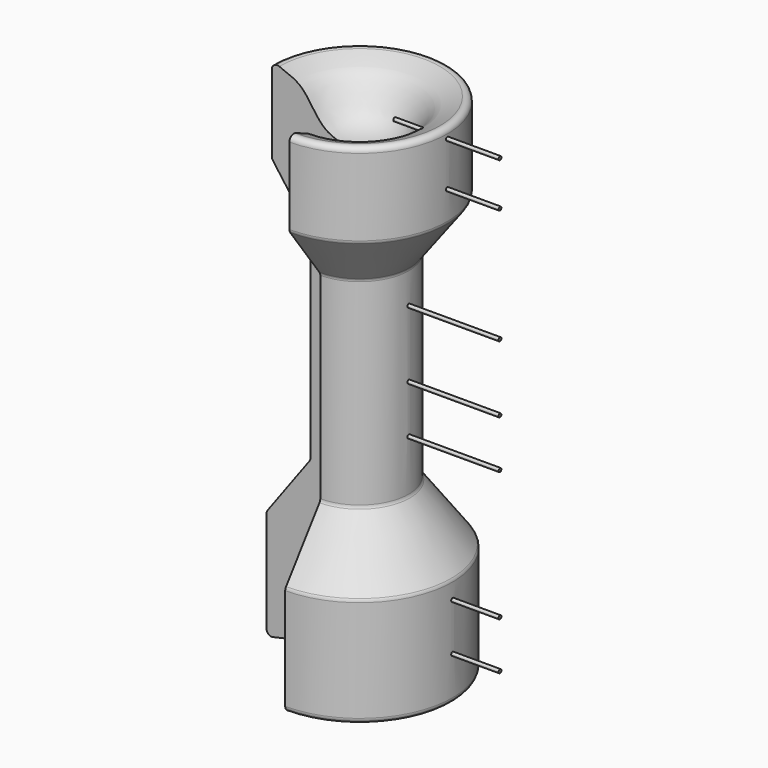
from build123d import *

# Parameters (mm, degrees)
F1_ANGLE = 270
F2_R     = 1.2745464221
F2_R_2   = 1.2552824714
F2_R_3   = 1.6322190303
F2_R_4   = 0.8880093631
F2_R_5   = 0.7381695648
F2_R_6   = 0.9012440071
F2_R_7   = 0.8549916488
F2_R_8   = 0.6863607266
F2_R_9   = 0.6498929306
F2_R_10  = 0.2758645629
F2_R_11  = 0.2848262521
F2_R_12  = 0.3956072165
F2_R_13  = 0.1715613473
F2_R_14  = 0.3493530521
F2_R_15  = 0.1932104592
F2_R_16  = 0.25277551
F2_R_17  = 0.2470281442
F2_R_18  = 0.189466877
F2_R_19  = 0.1894625306
F2_R_20  = 0.2160172465
F2_R_21  = 0.3410318833
F2_R_22  = 0.2092722247
F2_R_23  = 0.1515702747
F2_R_24  = 0.2040596992
F2_R_25  = 0.2652492155
F2_R_26  = 0.1629812297
F2_R_27  = 0.2638909269
F2_R_28  = 0.3136161778
F2_R_29  = 0.1562338053
F2_R_30  = 0.1715608928
F2_R_31  = 0.2995627114
F2_R_32  = 0.1289519235
F2_R_33  = 0.1538380187
F5_R     = 0.5
F6_DEPTH = 30


with BuildPart() as f1:
    # F0 (on Front) → F1 (revolve)
    with BuildSketch(Plane.XZ):
        with BuildLine():
            Line((-26.5, 30.5078862585), (-26.5, 1.5))
            ThreePointArc((-26.5, 1.5), (-26.0606601718, 0.4393398282), (-25, 0))
            add(Edge.make_bspline(
                [(-25, 0), (-21.8230657675, 0.652944704), (-15.6305798646, 1.925665692), (-8.3183493159, 6.856323911), (-2.7537531786, 7.6060234397), (0, 7.977027446)],
                knots=[0, 0, 0, 0, 0.3473277747, 0.6770119213, 1, 1, 1, 1], degree=3))
            Line((0, 7.977027446), (0, 130))
            add(Edge.make_bspline(
                [(-22.8977772498, 143.7990468747), (-20.9914386602, 142.9633793343), (-15.1584438549, 141.379212354), (-11.1858827412, 130.3900782292), (-2.2585186695, 129.8678209624), (0, 130)],
                knots=[0.0910696974, 0.0910696974, 0.0910696974, 0.0910696974, 0.3150517448, 0.6731890645, 1, 1, 1, 1], degree=3))
            ThreePointArc((-22.8977772498, 143.7990468747), (-24.3205686671, 143.6809004324), (-25, 142.4252463946))
            Line((-25, 142.4252463946), (-25, 120.4910557142))
            ThreePointArc((-25, 120.4910557142), (-24.9255544957, 120.0243712602), (-24.7096074938, 119.6040102188))
            Line((-24.7096074938, 119.6040102188), (-14.2903925062, 105.3959897812))
            ThreePointArc((-14.2903925062, 105.3959897812), (-14.0744455043, 104.9756287398), (-14, 104.5089442858))
            Line((-14, 104.5089442858), (-14, 48.4921137415))
            ThreePointArc((-14, 48.4921137415), (-14.0747430445, 48.0245213862), (-14.291523481, 47.6035280658))
            Line((-14.291523481, 47.6035280658), (-26.208476519, 31.3964719342))
            ThreePointArc((-26.208476519, 31.3964719342), (-26.4252569555, 30.9754786138), (-26.5, 30.5078862585))
        make_face()
    revolve(axis=Axis((0, 0, 68.988513723), (0, 0, -1)), revolution_arc=F1_ANGLE)

    # F2 (on Right) → F3 (revolve, cut)
    with BuildSketch(Plane.YZ):
        with Locations((-2.4987708312, 126.6380101442)):
            Circle(F2_R)
        with Locations((-6.0675018467, 125.4909187555)):
            Circle(F2_R_2)
        with Locations((-3.9007721934, 121.6672807932)):
            Circle(F2_R_3)
        with Locations((-7.941677998, 121.6672807932)):
            Circle(F2_R_4)
        with Locations((-7.941677998, 118.0985420942)):
            Circle(F2_R_5)
        with Locations((-3.3909534104, 118.8632845879)):
            Circle(F2_R_6)
        with Locations((-5.4302285425, 118.8632845879)):
            Circle(F2_R_7)
        with Locations((-1.8614974106, 116.8240010738)):
            Circle(F2_R_8)
        with Locations((-1.8614974106, 124.2163777351)):
            Circle(F2_R_9)
        with Locations((-4.1374247521, 116.4474487305)):
            Circle(F2_R_10)
        with Locations((-4.8072761856, 116.876155138)):
            Circle(F2_R_11)
        with Locations((-3.3336030319, 115.4560670257)):
            Circle(F2_R_12)
        with Locations((-1.2972556287, 121.029227972)):
            Circle(F2_R_13)
        with Locations((-5.9594195336, 122.9316145182)):
            Circle(F2_R_14)
        with Locations((-8.7460009381, 123.7890124321)):
            Circle(F2_R_15)
        with Locations((-10.7823479921, 120.9220588207)):
            Circle(F2_R_16)
        with Locations((-7.888590917, 120.3593760729)):
            Circle(F2_R_17)
        with Locations((-6.3881245442, 121.1899966002)):
            Circle(F2_R_18)
        with Locations((-6.4417123795, 120.1182305813)):
            Circle(F2_R_19)
        with Locations((-6.5488885157, 117.9211139679)):
            Circle(F2_R_20)
        with Locations((-6.1469781213, 116.5010333061)):
            Circle(F2_R_21)
        with Locations((-8.2637076266, 116.1527186632)):
            Circle(F2_R_22)
        with Locations((-6.2541542575, 115.4292747378)):
            Circle(F2_R_23)
        with Locations((-4.2713950388, 115.2149215341)):
            Circle(F2_R_24)
        with Locations((-2.610163996, 114.2771318555)):
            Circle(F2_R_25)
        with Locations((-4.7268937342, 113.7144565582)):
            Circle(F2_R_26)
        with Locations((-6.6024768166, 113.7680411339)):
            Circle(F2_R_27)
        with Locations((-7.4866805226, 114.3843084574)):
            Circle(F2_R_28)
        with Locations((-9.3890577555, 115.1881292462)):
            Circle(F2_R_29)
        with Locations((-10.6751723215, 117.385238409)):
            Circle(F2_R_30)
        with Locations((-9.7105866298, 118.9928799868)):
            Circle(F2_R_31)
        with Locations((-10.0321145728, 123.4942823648)):
            Circle(F2_R_10)
        with Locations((-8.0834338441, 125.4664510489)):
            Circle(F2_R_32)
        with Locations((-7.6005961746, 124.7690171003)):
            Circle(F2_R_33)
    revolve(axis=Axis((0, 0, 68.988513723), (0, 0, -1)), mode=Mode.SUBTRACT)

    # F5 (on offset) → F6 (join)
    with BuildSketch(Plane.YZ.offset(40)):
        with Locations((0, 12.5356242061)):
            Circle(F5_R)
        with Locations((0, 62.9958212376)):
            Circle(F5_R)
        with Locations((0, 76.714374125)):
            Circle(F5_R)
        with Locations((0, 95.791734755)):
            Circle(F5_R)
        with Locations((0, 128.5876482725)):
            Circle(F5_R)
        with Locations((0, 141.2378549576)):
            Circle(F5_R)
        with Locations((0, 26.0551348329)):
            Circle(F5_R)
    extrude(amount=-F6_DEPTH)


solid = f1.part
